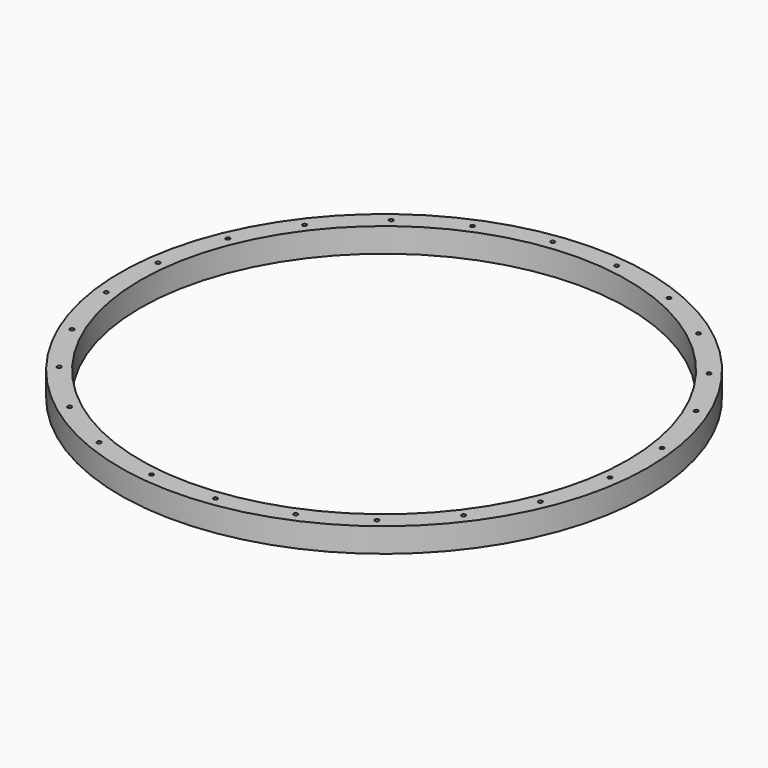
from build123d import *

# Parameters (mm, degrees)
F0_R     = 130
F0_R_2   = 120
F1_DEPTH = 12


with BuildPart() as f1:
    # F0 (on Top) → F1 (new body)
    with BuildSketch(Plane.XY):
        Circle(F0_R)
        with BuildLine():
            ThreePointArc((115.533661, -47.045387), (116.153821, -47.377912), (116.401407, -48.036603))
            ThreePointArc((116.401407, -48.036603), (115.729346, -48.981302), (114.616495, -48.65621))
            Line((114.616495, -48.65621), (99.915499, -74.475656))
            ThreePointArc((99.915499, -74.475656), (100.285226, -74.84207), (100.420705, -75.344666))
            ThreePointArc((100.420705, -75.344666), (99.806158, -76.267393), (98.717854, -76.056003))
            Line((98.717854, -76.056003), (76.532392, -98.509331))
            ThreePointArc((76.532392, -98.509331), (76.819507, -98.860115), (76.922249, -99.301622))
            ThreePointArc((76.922249, -99.301622), (75.994508, -100.299008), (74.932692, -99.445762))
            Line((74.932692, -99.445762), (49.291532, -114.45556))
            ThreePointArc((49.291532, -114.45556), (49.393668, -114.699031), (49.428523, -114.960747))
            ThreePointArc((49.428523, -114.960747), (48.562023, -115.951796), (47.464168, -115.225358))
            Line((47.464168, -115.225358), (17.02433, -123.577779))
            ThreePointArc((17.02433, -123.577779), (17.08074, -123.764616), (17.099785, -123.958852))
            ThreePointArc((17.099785, -123.958852), (15.911439, -124.940954), (15.170734, -123.588902))
            Line((15.170734, -123.588902), (-14.54006, -123.767188))
            ThreePointArc((-14.54006, -123.767188), (-14.540047, -123.770189), (-14.540042, -123.773189))
            ThreePointArc((-14.540042, -123.773189), (-15.667593, -124.765021), (-16.507504, -123.520171))
            Line((-16.507504, -123.520171), (-47.045387, -115.533661))
            ThreePointArc((-47.045387, -115.533661), (-48.531397, -116.270417), (-48.65621, -114.616495))
            Line((-48.65621, -114.616495), (-74.475656, -99.915499))
            ThreePointArc((-74.475656, -99.915499), (-75.948656, -100.217697), (-76.056003, -98.717854))
            Line((-76.056003, -98.717854), (-98.509331, -76.532392))
            ThreePointArc((-98.509331, -76.532392), (-100.164631, -76.427437), (-99.445762, -74.932692))
            Line((-99.445762, -74.932692), (-114.45556, -49.291532))
            ThreePointArc((-114.45556, -49.291532), (-115.882314, -48.816743), (-115.225358, -47.464168))
            Line((-115.225358, -47.464168), (-123.577779, -17.02433))
            ThreePointArc((-123.577779, -17.02433), (-124.958834, -16.105786), (-123.588902, -15.170734))
            Line((-123.588902, -15.170734), (-123.767188, 14.54006))
            ThreePointArc((-123.767188, 14.54006), (-124.765399, 15.664617), (-123.520171, 16.507504))
            Line((-123.520171, 16.507504), (-115.533661, 47.045387))
            ThreePointArc((-115.533661, 47.045387), (-116.270417, 48.531397), (-114.616495, 48.65621))
            Line((-114.616495, 48.65621), (-99.915499, 74.475656))
            ThreePointArc((-99.915499, 74.475656), (-100.217697, 75.948656), (-98.717854, 76.056003))
            Line((-98.717854, 76.056003), (-76.532392, 98.509331))
            ThreePointArc((-76.532392, 98.509331), (-76.427437, 100.164631), (-74.932692, 99.445762))
            Line((-74.932692, 99.445762), (-49.291532, 114.45556))
            ThreePointArc((-49.291532, 114.45556), (-48.816743, 115.882314), (-47.464168, 115.225358))
            Line((-47.464168, 115.225358), (-17.02433, 123.577779))
            ThreePointArc((-17.02433, 123.577779), (-16.294021, 124.939807), (-15.099785, 123.958852))
            ThreePointArc((-15.099785, 123.958852), (-15.117683, 123.770506), (-15.170734, 123.588902))
            Line((-15.170734, 123.588902), (14.54006, 123.767188))
            ThreePointArc((14.54006, 123.767188), (15.537042, 124.773185), (16.540042, 123.773189))
            ThreePointArc((16.540042, 123.773189), (16.531874, 123.645638), (16.507504, 123.520171))
            Line((16.507504, 123.520171), (47.045387, 115.533661))
            ThreePointArc((47.045387, 115.533661), (48.102875, 116.399209), (49.036603, 115.401407))
            ThreePointArc((49.036603, 115.401407), (48.936494, 114.965292), (48.65621, 114.616495))
            Line((48.65621, 114.616495), (74.475656, 99.915499))
            ThreePointArc((74.475656, 99.915499), (75.600586, 100.387403), (76.344666, 99.420705))
            ThreePointArc((76.344666, 99.420705), (76.26969, 99.040795), (76.056003, 98.717854))
            Line((76.056003, 98.717854), (98.509331, 76.532392))
            ThreePointArc((98.509331, 76.532392), (99.623886, 76.868899), (100.301622, 75.922249))
            ThreePointArc((100.301622, 75.922249), (100.057975, 75.268085), (99.445762, 74.932692))
            Line((99.445762, 74.932692), (114.45556, 49.291532))
            ThreePointArc((114.45556, 49.291532), (115.458147, 49.296045), (115.960747, 48.428523))
            ThreePointArc((115.960747, 48.428523), (115.755923, 47.822145), (115.225358, 47.464168))
            Line((115.225358, 47.464168), (123.577779, 17.02433))
            ThreePointArc((123.577779, 17.02433), (124.515146, 16.93077), (124.958852, 16.099785))
            ThreePointArc((124.958852, 16.099785), (124.520123, 15.272153), (123.588902, 15.170734))
            Line((123.588902, 15.170734), (123.767188, -14.54006))
            ThreePointArc((123.767188, -14.54006), (124.478171, -14.830817), (124.773189, -15.540042))
            ThreePointArc((124.773189, -15.540042), (124.384328, -16.331566), (123.520171, -16.507504))
            Line((123.520171, -16.507504), (115.533661, -47.045387))
        make_face(mode=Mode.SUBTRACT)
        with BuildLine():
            ThreePointArc((114.616495, -48.65621), (114.532397, -47.541809), (115.533661, -47.045387))
            Line((115.533661, -47.045387), (123.520171, -16.507504))
            ThreePointArc((123.520171, -16.507504), (122.780979, -15.415468), (123.767188, -14.54006))
            Line((123.767188, -14.54006), (123.588902, 15.170734))
            ThreePointArc((123.588902, 15.170734), (122.95887, 16.093785), (123.577779, 17.02433))
            Line((123.577779, 17.02433), (115.225358, 47.464168))
            ThreePointArc((115.225358, 47.464168), (114.039181, 48.040303), (114.45556, 49.291532))
            Line((114.45556, 49.291532), (99.445762, 74.932692))
            ThreePointArc((99.445762, 74.932692), (98.438612, 75.417061), (98.509331, 76.532392))
            Line((98.509331, 76.532392), (76.056003, 98.717854))
            ThreePointArc((76.056003, 98.717854), (74.740676, 98.623713), (74.475656, 99.915499))
            Line((74.475656, 99.915499), (48.65621, 114.616495))
            ThreePointArc((48.65621, 114.616495), (47.541809, 114.532397), (47.045387, 115.533661))
            Line((47.045387, 115.533661), (16.507504, 123.520171))
            ThreePointArc((16.507504, 123.520171), (15.415468, 122.780979), (14.54006, 123.767188))
            Line((14.54006, 123.767188), (-15.170734, 123.588902))
            ThreePointArc((-15.170734, 123.588902), (-16.093785, 122.95887), (-17.02433, 123.577779))
            Line((-17.02433, 123.577779), (-47.464168, 115.225358))
            ThreePointArc((-47.464168, 115.225358), (-47.437474, 115.094247), (-47.428523, 114.960747))
            ThreePointArc((-47.428523, 114.960747), (-48.166807, 113.995602), (-49.291532, 114.45556))
            Line((-49.291532, 114.45556), (-74.932692, 99.445762))
            ThreePointArc((-74.932692, 99.445762), (-74.924863, 99.373881), (-74.922249, 99.301622))
            ThreePointArc((-74.922249, 99.301622), (-75.480742, 98.404364), (-76.532392, 98.509331))
            Line((-76.532392, 98.509331), (-98.717854, 76.056003))
            ThreePointArc((-98.717854, 76.056003), (-98.497978, 75.73012), (-98.420705, 75.344666))
            ThreePointArc((-98.420705, 75.344666), (-98.918109, 74.480145), (-99.915499, 74.475656))
            Line((-99.915499, 74.475656), (-114.616495, 48.65621))
            ThreePointArc((-114.616495, 48.65621), (-114.456708, 48.364542), (-114.401407, 48.036603))
            ThreePointArc((-114.401407, 48.036603), (-114.742717, 47.284189), (-115.533661, 47.045387))
            Line((-115.533661, 47.045387), (-123.520171, 16.507504))
            ThreePointArc((-123.520171, 16.507504), (-122.981666, 16.151181), (-122.773189, 15.540042))
            ThreePointArc((-122.773189, 15.540042), (-123.063964, 14.83506), (-123.767188, 14.54006))
            Line((-123.767188, 14.54006), (-123.588902, -15.170734))
            ThreePointArc((-123.588902, -15.170734), (-123.13122, -15.538514), (-122.958852, -16.099785))
            ThreePointArc((-122.958852, -16.099785), (-123.127866, -16.65608), (-123.577779, -17.02433))
            Line((-123.577779, -17.02433), (-115.225358, -47.464168))
            ThreePointArc((-115.225358, -47.464168), (-114.354369, -47.633347), (-113.960747, -48.428523))
            ThreePointArc((-113.960747, -48.428523), (-114.093226, -48.925922), (-114.45556, -49.291532))
            Line((-114.45556, -49.291532), (-99.445762, -74.932692))
            ThreePointArc((-99.445762, -74.932692), (-98.647458, -75.165896), (-98.301622, -75.922249))
            ThreePointArc((-98.301622, -75.922249), (-98.354972, -76.244513), (-98.509331, -76.532392))
            Line((-98.509331, -76.532392), (-76.056003, -98.717854))
            ThreePointArc((-76.056003, -98.717854), (-74.964756, -98.495681), (-74.344666, -99.420705))
            ThreePointArc((-74.344666, -99.420705), (-74.377968, -99.676625), (-74.475656, -99.915499))
            Line((-74.475656, -99.915499), (-48.65621, -114.616495))
            ThreePointArc((-48.65621, -114.616495), (-47.600488, -114.501516), (-47.036603, -115.401407))
            ThreePointArc((-47.036603, -115.401407), (-47.038801, -115.46768), (-47.045387, -115.533661))
            Line((-47.045387, -115.533661), (-16.507504, -123.520171))
            ThreePointArc((-16.507504, -123.520171), (-15.415468, -122.780979), (-14.54006, -123.767188))
            Line((-14.54006, -123.767188), (15.170734, -123.588902))
            ThreePointArc((15.170734, -123.588902), (16.093785, -122.95887), (17.02433, -123.577779))
            Line((17.02433, -123.577779), (47.464168, -115.225358))
            ThreePointArc((47.464168, -115.225358), (48.040303, -114.039181), (49.291532, -114.45556))
            Line((49.291532, -114.45556), (74.932692, -99.445762))
            ThreePointArc((74.932692, -99.445762), (75.417061, -98.438612), (76.532392, -98.509331))
            Line((76.532392, -98.509331), (98.717854, -76.056003))
            ThreePointArc((98.717854, -76.056003), (98.623713, -74.740676), (99.915499, -74.475656))
            Line((99.915499, -74.475656), (114.616495, -48.65621))
        make_face()
        Circle(F0_R_2, mode=Mode.SUBTRACT)
    extrude(amount=F1_DEPTH)


solid = f1.part
